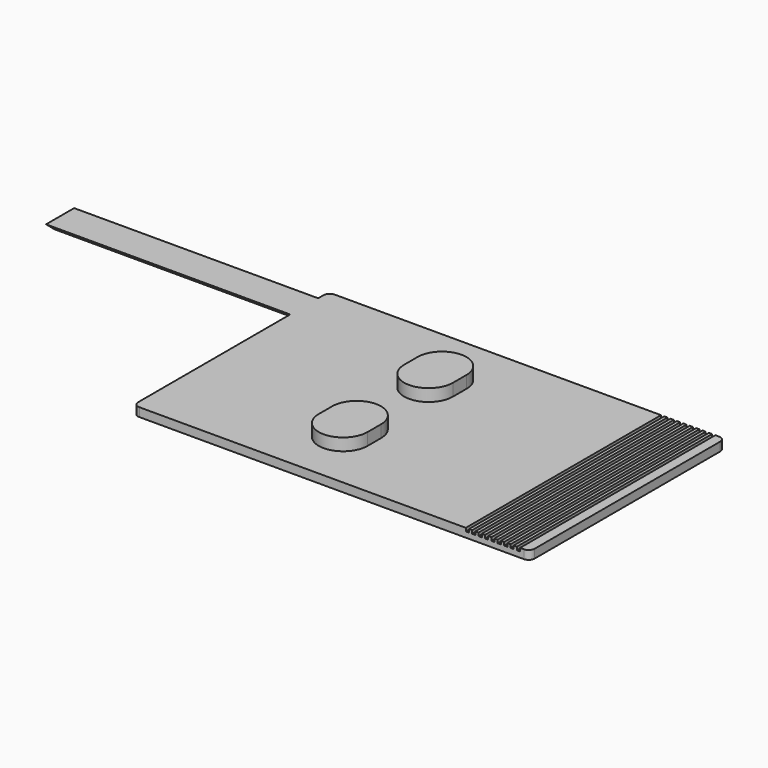
from build123d import *

# Parameters (mm, degrees)
SKETCH_W     = 130
SKETCH_H     = 80
PAD_DEPTH    = 2.85
PAD001_DEPTH = 4
PAD002_DEPTH = 80
FILLET_R     = 2
SKETCH003_W  = 1.05
SKETCH003_H  = 80
POCKET_DEPTH = 1.05


with BuildPart() as part:
    # Sketch → Pad (new body)
    with BuildSketch(Plane.XY):
        Rectangle(SKETCH_W, SKETCH_H)
    extrude(amount=PAD_DEPTH)

    # Sketch001 (on Face6 of Pad) → Pad001 (join)
    with BuildSketch(Plane.XY.offset(2.85)):
        with BuildLine():
            ThreePointArc((-20, 14.75), (-12, 6.75), (-4, 14.75))
            Line((-4, 20.25), (-4, 14.75))
            ThreePointArc((-4, 20.25), (-11.999999, 28.250003), (-20, 20.250002))
            Line((-20, 20.250002), (-20, 14.75))
        make_face()
        with BuildLine():
            ThreePointArc((-20, -20.25), (-12, -28.25), (-4, -20.25))
            Line((-4, -14.75), (-4, -20.25))
            ThreePointArc((-4, -14.75), (-12, -6.75), (-20, -14.75))
            Line((-20, -14.75), (-20, -20.25))
        make_face()
    extrude(amount=PAD001_DEPTH)

    # Sketch002 (on Face2 of Pad001) → Pad002 (join)
    with BuildSketch(Plane(origin=(-65, 0, 0), x_dir=(0, -1, 0), z_dir=(-1, 0, 0))):
        Polygon((-35.765375, 2.85), (-24.265375, 2.85), (-27.715375, 0), (-32.315375, 0), align=None)
    extrude(amount=PAD002_DEPTH)

    # Fillet
    fillet_edges = [part.edges().sort_by_distance(p)[0] for p in [
        (-65, -40, 1.425),
        (65, -40, 1.425),
        (65, 40, 1.425),
        (-65, 40, 1.425),
    ]]
    fillet(fillet_edges, radius=FILLET_R)

    # Sketch003 (on Face5 of Fillet) → Pocket (cut)
    with BuildSketch(Plane.XY.offset(2.85)):
        with Locations((44.525, 0)):
            Rectangle(SKETCH003_W, SKETCH003_H)
        with Locations((46.616892, 0)):
            Rectangle(SKETCH003_W, SKETCH003_H)
        with Locations((48.708784, 0)):
            Rectangle(SKETCH003_W, SKETCH003_H)
        with Locations((50.800676, 0)):
            Rectangle(SKETCH003_W, SKETCH003_H)
        with Locations((52.892568, 0)):
            Rectangle(SKETCH003_W, SKETCH003_H)
        with Locations((54.98446, 0)):
            Rectangle(SKETCH003_W, SKETCH003_H)
        with Locations((57.076352, 0)):
            Rectangle(SKETCH003_W, SKETCH003_H)
        with Locations((59.168244, 0)):
            Rectangle(SKETCH003_W, SKETCH003_H)
        with Locations((61.260136, 0)):
            Rectangle(SKETCH003_W, SKETCH003_H)
    extrude(amount=-POCKET_DEPTH, mode=Mode.SUBTRACT)


solid = part.part
